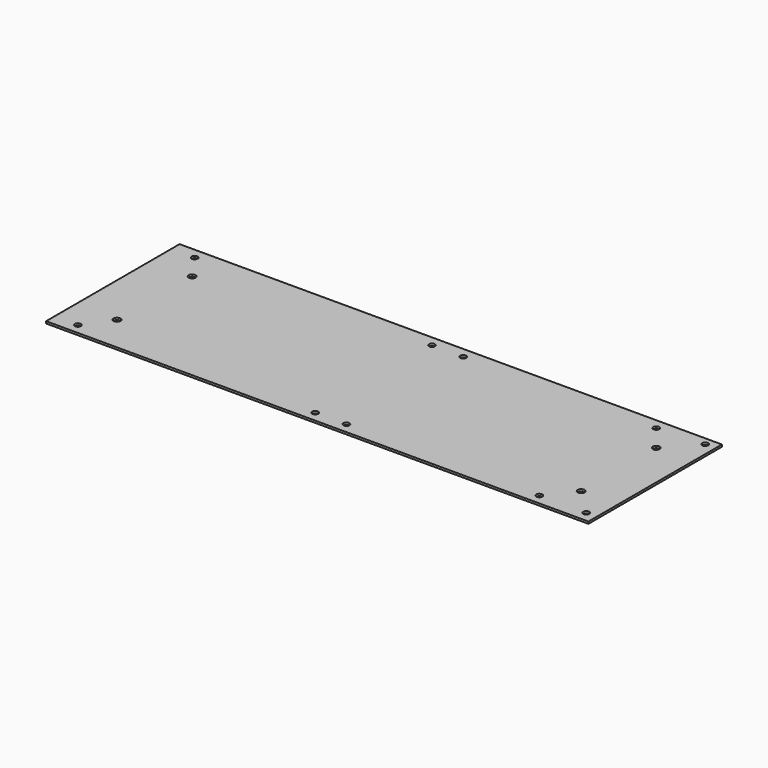
from build123d import *

# Parameters (mm, degrees)
SKETCH037_W   = 520
SKETCH037_H   = 160
PAD013_DEPTH  = 2
SKETCH038_R   = 2.9
HOLE013_DEPTH = 25
SKETCH039_R   = 3.3
HOLE014_DEPTH = 25


with BuildPart() as part:
    # Sketch037 → Pad013 (new body)
    with BuildSketch(Plane.XY):
        with Locations((260, -80)):
            Rectangle(SKETCH037_W, SKETCH037_H)
    extrude(amount=PAD013_DEPTH)

    # Sketch038 → Hole013 (cut)
    with BuildSketch(Plane.XY):
        with Locations((22.5, -10)):
            Circle(SKETCH038_R)
        with Locations((22.5, -150)):
            Circle(SKETCH038_R)
        with Locations((250, -10)):
            Circle(SKETCH038_R)
        with Locations((280, -10)):
            Circle(SKETCH038_R)
        with Locations((250, -150)):
            Circle(SKETCH038_R)
        with Locations((280, -150)):
            Circle(SKETCH038_R)
        with Locations((465, -150)):
            Circle(SKETCH038_R)
        with Locations((465, -10)):
            Circle(SKETCH038_R)
        with Locations((510, -7.5)):
            Circle(SKETCH038_R)
        with Locations((510, -150)):
            Circle(SKETCH038_R)
    extrude(amount=HOLE013_DEPTH, mode=Mode.SUBTRACT)

    # Sketch039 → Hole014 (cut)
    with BuildSketch(Plane.XY):
        with Locations((40, -35)):
            Circle(SKETCH039_R)
        with Locations((40, -125)):
            Circle(SKETCH039_R)
        with Locations((485, -35)):
            Circle(SKETCH039_R)
        with Locations((485, -125)):
            Circle(SKETCH039_R)
    extrude(amount=HOLE014_DEPTH, mode=Mode.SUBTRACT)


with BuildPart() as part_1:
    # Body006 placement: moved
    add(part.part.moved(Location((0, -5, 65))))


solid = part_1.part
